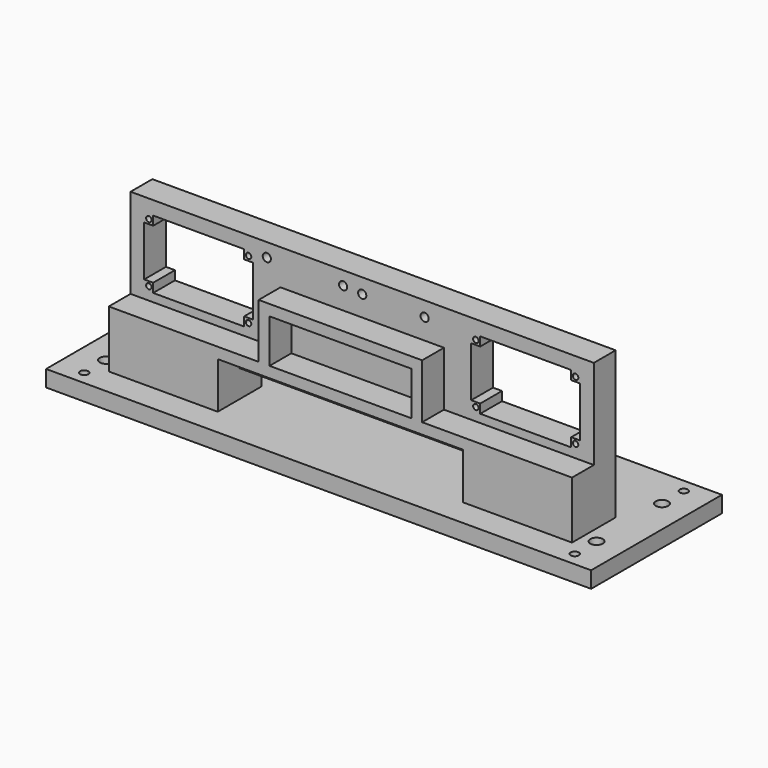
from build123d import *

# Parameters (mm, degrees)
SKETCH_W        = 200
SKETCH_H        = 60
PAD_DEPTH       = 6
SKETCH003_R     = 1.5
SKETCH003_R_2   = 2.3
POCKET001_DEPTH = 200
SKETCH006_R     = 4.15
PAD004_DEPTH    = 25
SKETCH005_W     = 200
SKETCH005_H     = 60
PAD003_DEPTH    = 6
SKETCH001_W     = 170
SKETCH001_H     = 10
PAD001_DEPTH    = 60
SKETCH002_R     = 1
SKETCH002_R_2   = 1.5
SKETCH002_W     = 90
SKETCH002_H     = 10
POCKET_DEPTH    = 50
SKETCH004_W     = 52
SKETCH004_H     = 16
PAD002_DEPTH    = 10


with BuildPart() as base_mount_holes:
    # Sketch → Pad (new body)
    with BuildSketch(Plane.XY):
        with Locations((100, 30)):
            Rectangle(SKETCH_W, SKETCH_H)
    extrude(amount=PAD_DEPTH)

    # Sketch003 → Pocket001 (cut)
    with BuildSketch(Plane.XY.offset(6)):
        with Locations((10, 55)):
            Circle(SKETCH003_R)
        with Locations((190, 55)):
            Circle(SKETCH003_R)
        with Locations((10, 5)):
            Circle(SKETCH003_R)
        with Locations((190, 5)):
            Circle(SKETCH003_R)
        with Locations((10, 45)):
            Circle(SKETCH003_R_2)
        with Locations((10, 15)):
            Circle(SKETCH003_R_2)
        with Locations((190, 15)):
            Circle(SKETCH003_R_2)
        with Locations((190, 45)):
            Circle(SKETCH003_R_2)
    extrude(amount=-POCKET001_DEPTH, mode=Mode.SUBTRACT)


with BuildPart() as sensor_bottom_mount_holes:
    # Sketch006 → Pad004 (new body)
    with BuildSketch(Plane.XY):
        with Locations((25, 20)):
            Circle(SKETCH006_R)
        with Locations((175, 20)):
            Circle(SKETCH006_R)
    extrude(amount=PAD004_DEPTH)


with BuildPart() as remove_base_from_tower:
    # Sketch005 → Pad003 (new body)
    with BuildSketch(Plane.XY):
        with Locations((100, 30)):
            Rectangle(SKETCH005_W, SKETCH005_H)
    extrude(amount=PAD003_DEPTH)


with BuildPart() as cut001:
    # Sketch001 → Pad001 (new body)
    with BuildSketch(Plane.XY):
        with Locations((100, 25)):
            Rectangle(SKETCH001_W, SKETCH001_H)
    extrude(amount=PAD001_DEPTH)

    # Sketch002 → Pocket (cut)
    with BuildSketch(Plane.XZ.offset(-20)):
        with Locations((21.7, 53.35)):
            Circle(SKETCH002_R)
        with Locations((58.3, 53.35)):
            Circle(SKETCH002_R)
        with Locations((21.7, 31.65)):
            Circle(SKETCH002_R)
        with Locations((58.3, 31.65)):
            Circle(SKETCH002_R)
        with Locations((100, 54.55)):
            Circle(SKETCH002_R_2)
        with Locations((122.9, 54.55)):
            Circle(SKETCH002_R_2)
        with Locations((100, 19)):
            Circle(SKETCH002_R_2)
        with Locations((122.9, 19)):
            Circle(SKETCH002_R_2)
        with Locations((141.7, 53.35)):
            Circle(SKETCH002_R)
        with Locations((141.7, 31.65)):
            Circle(SKETCH002_R)
        with Locations((178.3, 31.65)):
            Circle(SKETCH002_R)
        with Locations((178.3, 53.35)):
            Circle(SKETCH002_R)
        with Locations((65, 55)):
            Circle(SKETCH002_R_2)
        with Locations((93, 55)):
            Circle(SKETCH002_R_2)
        Polygon((20, 51.7), (20, 33.3), (23.3, 33.3), (23.3, 30), (56.7, 30), (56.7, 33.3), (60, 33.3), (60, 51.7), (56.7, 51.7), (56.7, 55), (23.3, 55), (23.3, 51.7), align=None)
        with Locations((100, 11)):
            Rectangle(SKETCH002_W, SKETCH002_H)
        Polygon((140, 51.7), (143.3, 51.7), (143.3, 55), (176.7, 55), (176.7, 51.7), (180, 51.7), (180, 33.3), (176.7, 33.3), (176.7, 30), (143.3, 30), (143.3, 33.3), (140, 33.3), align=None)
    extrude(amount=-POCKET_DEPTH, mode=Mode.SUBTRACT)

    # Sketch004 → Pad002 (new body)
    with BuildSketch(Plane.XZ.offset(-20)):
        Polygon((15, 27), (15, 0), (55, 0), (55, 23), (145, 23), (145, 0), (185, 0), (185, 27), (130, 27), (130, 47), (70, 47), (70, 27), align=None)
        with Locations((100, 35)):
            Rectangle(SKETCH004_W, SKETCH004_H, mode=Mode.SUBTRACT)
    extrude(amount=PAD002_DEPTH)

    # Cut: cut Remove Base From Tower
    add(remove_base_from_tower.part, mode=Mode.SUBTRACT)

    # Cut001: cut Sensor Bottom Mount Holes
    add(sensor_bottom_mount_holes.part, mode=Mode.SUBTRACT)


solid = Compound([base_mount_holes.part, cut001.part])
